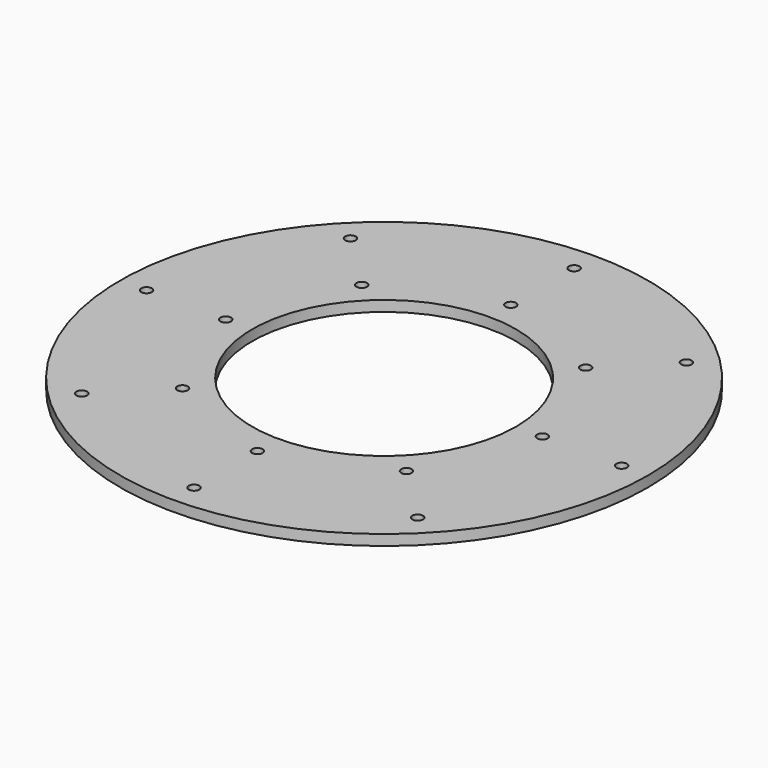
from build123d import *

# Parameters (mm, degrees)
SKETCH_R           = 50
SKETCH_R_2         = 25
PAD_DEPTH          = 2
SKETCH001_R        = 1
POCKET_DEPTH       = 282.871995
POCKET_DEPTH_BACK  = 284.871995
POLARPATTERN_COUNT = 8


with BuildPart() as part:
    # Sketch → Pad (new body)
    with BuildSketch(Plane.XY):
        Circle(SKETCH_R)
        Circle(SKETCH_R_2, mode=Mode.SUBTRACT)
    extrude(amount=PAD_DEPTH)

    # Sketch001 → Pocket (cut, two sides)
    with BuildSketch(Plane.XY) as pocket_sk:
        with Locations((30, 0)):
            Circle(SKETCH001_R)
        with Locations((45, 0)):
            Circle(SKETCH001_R)
    pocket = extrude(amount=-POCKET_DEPTH, mode=Mode.SUBTRACT) + extrude(pocket_sk.sketch, amount=POCKET_DEPTH_BACK, mode=Mode.SUBTRACT)

    # PolarPattern: Pocket ×8 about axis
    polarpattern_axis = Axis((0, 0, 0), (0, 0, 1))
    for i in range(1, POLARPATTERN_COUNT):
        add(pocket.rotate(polarpattern_axis, i * 360 / POLARPATTERN_COUNT), mode=Mode.SUBTRACT)


solid = part.part
